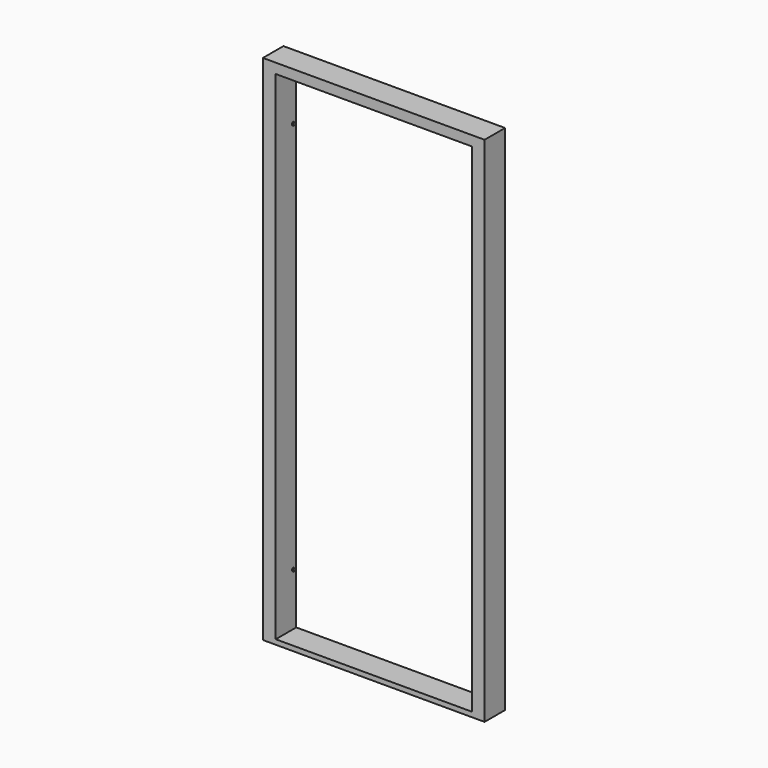
from build123d import *

# Parameters (mm, degrees)
F0_W     = 50
F0_H     = 1942
F0_W_2   = 865
F0_H_2   = 20
F1_DEPTH = 50
F3_R     = 10
F4_DEPTH = 15
F6_R     = 6
F7_DEPTH = 4


with BuildPart() as f1:
    # F0 (on Front) → F1 (new body, symmetric)
    with BuildSketch(Plane.XZ):
        with Locations((-407.5, 0)):
            Rectangle(F0_W, F0_H)
        Polygon((432.5, 990), (-432.5, 990), (-432.5, 971), (-382.5, 971), (382.5, 971), (432.5, 971), align=None)
        with Locations((0, 1000)):
            Rectangle(F0_W_2, F0_H_2)
        with Locations((407.5, 0)):
            Rectangle(F0_W, F0_H)
        Polygon((-382.5, -971), (-432.5, -971), (-432.5, -990), (432.5, -990), (432.5, -971), (382.5, -971), align=None)
    extrude(amount=F1_DEPTH, both=True)

    # F3 (on offset) → F4 (join)
    with BuildSketch(Plane.XY.offset(-990)):
        with Locations((-232.5, 0)):
            Circle(F3_R)
        with Locations((232.5, 0)):
            Circle(F3_R)
    extrude(amount=-F4_DEPTH)

    # F6 (on offset) → F7 (join)
    with BuildSketch(Plane.YZ.offset(-382.5)):
        with Locations((35, 766)):
            Circle(F6_R)
        with Locations((35, -766)):
            Circle(F6_R)
    extrude(amount=F7_DEPTH)


solid = f1.part
